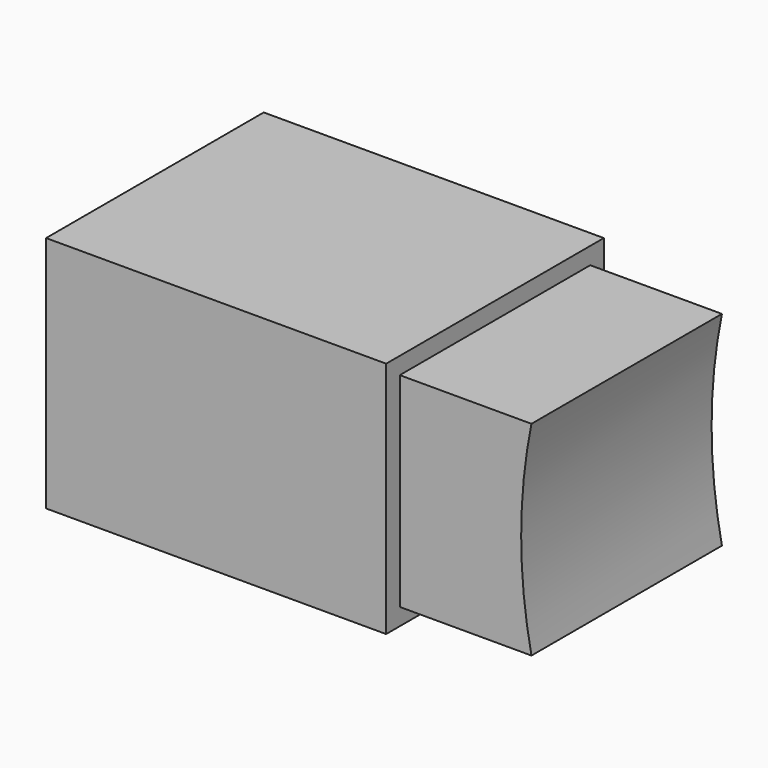
from build123d import *

# Parameters (mm, degrees)
SKETCH006_W     = 5
SKETCH006_H     = 6
SKETCH006_W_2   = 10
SKETCH006_H_2   = 7
SKETCH006_W_3   = 2.5
SKETCH006_H_3   = 1.5
PAD002_DEPTH    = 8
SKETCH007_R     = 15
POCKET004_DEPTH = 8.001
SKETCH008_W     = 2.5
SKETCH008_H     = 4.49
POCKET005_DEPTH = 4.251
SKETCH009_W     = 3.873062
SKETCH009_H     = 0.5
POCKET006_DEPTH = 6.501


with BuildPart() as part:
    # Sketch006 → Pad002 (new body)
    with BuildSketch(Plane.XZ):
        with Locations((-16.07, 0)):
            Rectangle(SKETCH006_W, SKETCH006_H)
        with Locations((-23.57, 0)):
            Rectangle(SKETCH006_W_2, SKETCH006_H_2)
        with Locations((-29.82, 0)):
            Rectangle(SKETCH006_W_3, SKETCH006_H_3)
    extrude(amount=PAD002_DEPTH)

    # Sketch007 (on Face14 of Pad002) → Pocket004 (cut, through all)
    with BuildSketch(Plane.XZ.offset(8)):
        Circle(SKETCH007_R)
    extrude(amount=-POCKET004_DEPTH, mode=Mode.SUBTRACT)

    # Sketch008 (on Face8 of Pocket004) → Pocket005 (cut, through all)
    with BuildSketch(Plane(origin=(0, 0, 0.75), x_dir=(-1, 0, 0), z_dir=(0, 0, 1))):
        with Locations((29.82, 5.755)):
            Rectangle(SKETCH008_W, SKETCH008_H)
        with Locations((29.82, 2.245)):
            Rectangle(SKETCH008_W, SKETCH008_H)
    extrude(amount=-POCKET005_DEPTH, mode=Mode.SUBTRACT)

    # Sketch009 (on Face8 of Pocket005) → Pocket006 (cut, through all)
    with BuildSketch(Plane(origin=(0, 0, 3), x_dir=(-1, 0, 0), z_dir=(0, 0, 1))):
        with Locations((16.633469, 7.75)):
            Rectangle(SKETCH009_W, SKETCH009_H)
        with Locations((16.633469, 0.25)):
            Rectangle(SKETCH009_W, SKETCH009_H)
    extrude(amount=-POCKET006_DEPTH, mode=Mode.SUBTRACT)


with BuildPart() as part_1:
    # Body002 placement: moved
    add(part.part.moved(Location((0, 15, 0))))


solid = part_1.part
